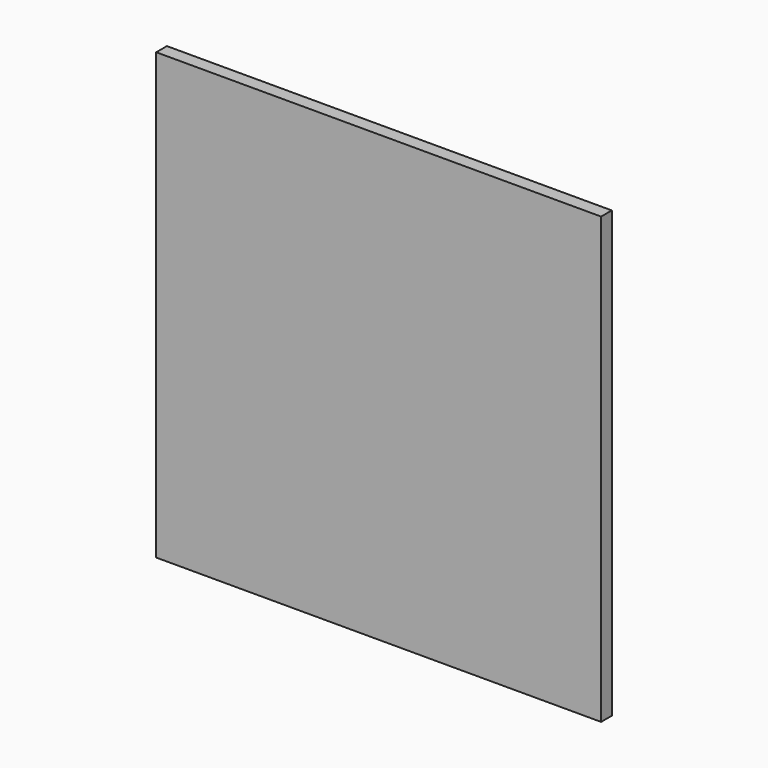
from build123d import *

# Parameters (mm, degrees)
F0_W     = 76.2
F0_H     = 76.2
F1_DEPTH = 2.286
F3_DEPTH = 4.064


with BuildPart() as f1:
    # F0 (on Front) → F1 (new body)
    with BuildSketch(Plane.XZ):
        Rectangle(F0_W, F0_H)
    extrude(amount=F1_DEPTH)

    # F2 (on face) → F3 (join)
    with BuildSketch(Plane(origin=(0, 0, 0), x_dir=(-1, 0, 0), z_dir=(0, 1, 0))):
        with BuildLine():
            ThreePointArc((20.8367786429, -20.8367786429), (20.8367786429, -29.8170347639), (29.8170347639, -29.8170347639))
            Line((29.8170347639, -29.8170347639), (20.8367786429, -20.8367786429))
        make_face()
        with BuildLine():
            Line((-20.8367786429, -20.8367786429), (-29.8170347639, -29.8170347639))
            ThreePointArc((-29.8170347639, -29.8170347639), (-22.8968669079, -31.1935417349), (-18.9769067034, -25.3269067034))
            ThreePointArc((-18.9769067034, -25.3269067034), (-19.460271672, -22.8968669079), (-20.8367786429, -20.8367786429))
        make_face()
        with BuildLine():
            ThreePointArc((-20.8367786429, -20.8367786429), (-29.8170347639, -20.8367786429), (-29.8170347639, -29.8170347639))
            Line((-29.8170347639, -29.8170347639), (-20.8367786429, -20.8367786429))
        make_face()
        with BuildLine():
            Line((-20.8367786429, 20.8367786429), (-29.8170347639, 29.8170347639))
            ThreePointArc((-29.8170347639, 29.8170347639), (-29.8170347639, 20.8367786429), (-20.8367786429, 20.8367786429))
        make_face()
        with BuildLine():
            ThreePointArc((-18.9769067034, 25.3269067034), (-22.8968669079, 31.1935417349), (-29.8170347639, 29.8170347639))
            Line((-29.8170347639, 29.8170347639), (-20.8367786429, 20.8367786429))
            ThreePointArc((-20.8367786429, 20.8367786429), (-19.460271672, 22.8968669079), (-18.9769067034, 25.3269067034))
        make_face()
        with BuildLine():
            Line((20.8367786429, 20.8367786429), (29.8170347639, 29.8170347639))
            ThreePointArc((29.8170347639, 29.8170347639), (20.8367786429, 29.8170347639), (20.8367786429, 20.8367786429))
        make_face()
        with BuildLine():
            ThreePointArc((31.6769067034, 25.3269067034), (31.1935417349, 27.7569464989), (29.8170347639, 29.8170347639))
            Line((29.8170347639, 29.8170347639), (20.8367786429, 20.8367786429))
            ThreePointArc((20.8367786429, 20.8367786429), (27.7569464989, 19.460271672), (31.6769067034, 25.3269067034))
        make_face()
        with BuildLine():
            Line((20.8367786429, -20.8367786429), (29.8170347639, -29.8170347639))
            ThreePointArc((29.8170347639, -29.8170347639), (31.1935417349, -27.7569464989), (31.6769067034, -25.3269067034))
            ThreePointArc((31.6769067034, -25.3269067034), (27.7569464989, -19.460271672), (20.8367786429, -20.8367786429))
        make_face()
    extrude(amount=F3_DEPTH)


solid = f1.part
